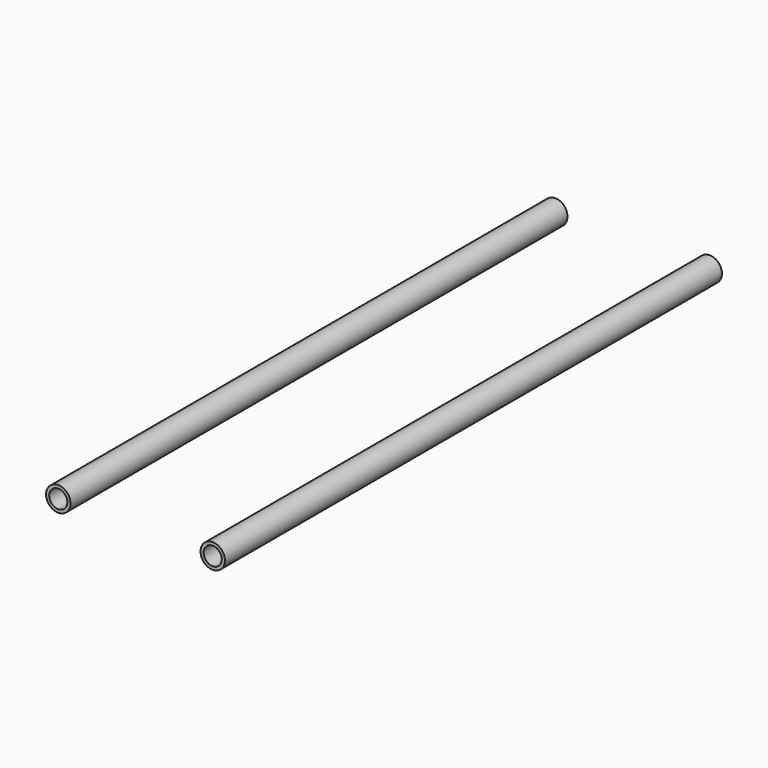
from build123d import *

# Parameters (mm, degrees)
F0_R     = 4.841753
F0_R_2   = 3.598893
F1_DEPTH = 246.38


with BuildPart() as f1:
    # F0 (on Front) → F1 (new body)
    with BuildSketch(Plane.XZ):
        with Locations((-30.624099, 11.862299)):
            Circle(F0_R)
        with Locations((-30.624099, 11.862299)):
            Circle(F0_R_2, mode=Mode.SUBTRACT)
    extrude(amount=F1_DEPTH)


with BuildPart() as f2_1:
    # F2: instance of F1
    add(f1.part.mirror(Plane.YZ))


solid = Compound([f1.part, f2_1.part])
